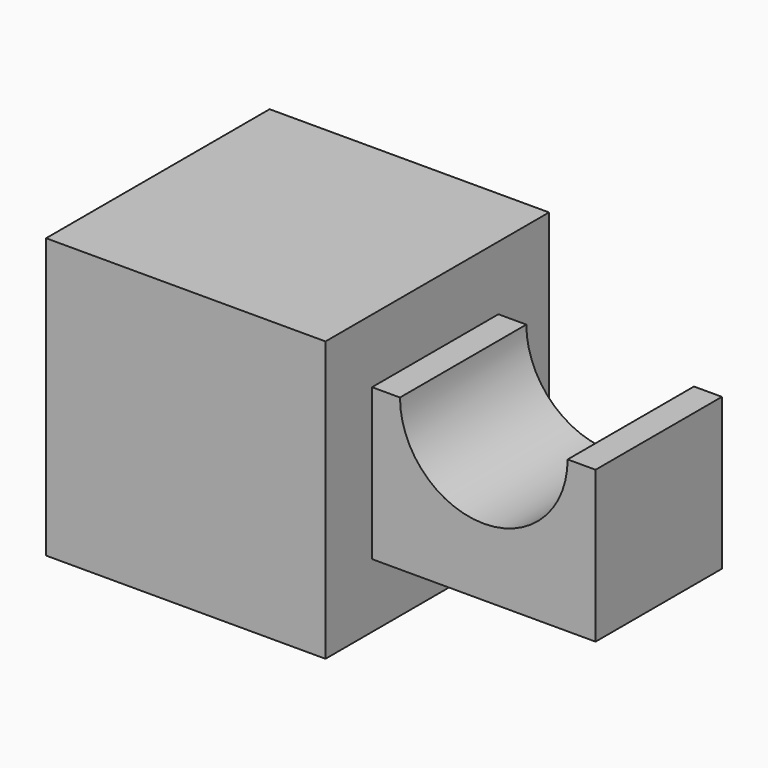
from build123d import *

# Parameters (mm, degrees)
F0_W     = 6.35
F0_H     = 6.35
F1_DEPTH = 6.35
F2_W     = 3.589511
F2_H     = 3.439947
F3_DEPTH = 2.54
F4_W     = 3.589511
F4_H     = 3.439947
F5_DEPTH = 2.54
F7_D     = 3.81


with BuildPart() as f1:
    # F0 (on Right) → F1 (new body)
    with BuildSketch(Plane.YZ):
        with Locations((-38.814982, 3.175)):
            Rectangle(F0_W, F0_H)
    extrude(amount=F1_DEPTH)



with BuildPart() as f3:
    # F2 (on face) → F3 (new body)
    with BuildSketch(Plane.YZ.offset(8.89)):
        with Locations((-38.873002, 3.177181)):
            Rectangle(F2_W, F2_H)
    extrude(amount=F3_DEPTH)


with BuildPart() as f1_1:
    add(f1.part)

    add(f3.part)  # F5 merges F3
    # F4 (on face) → F5 (join)
    with BuildSketch(Plane.YZ.offset(6.35)):
        with Locations((-38.873002, 3.177181)):
            Rectangle(F4_W, F4_H)
    extrude(amount=F5_DEPTH)

    # F7 (through all)
    with Locations(Plane.XZ.offset(40.667757)):
        with Locations((8.89, 4.897155)):
            Hole(F7_D / 2)


solid = f1_1.part
